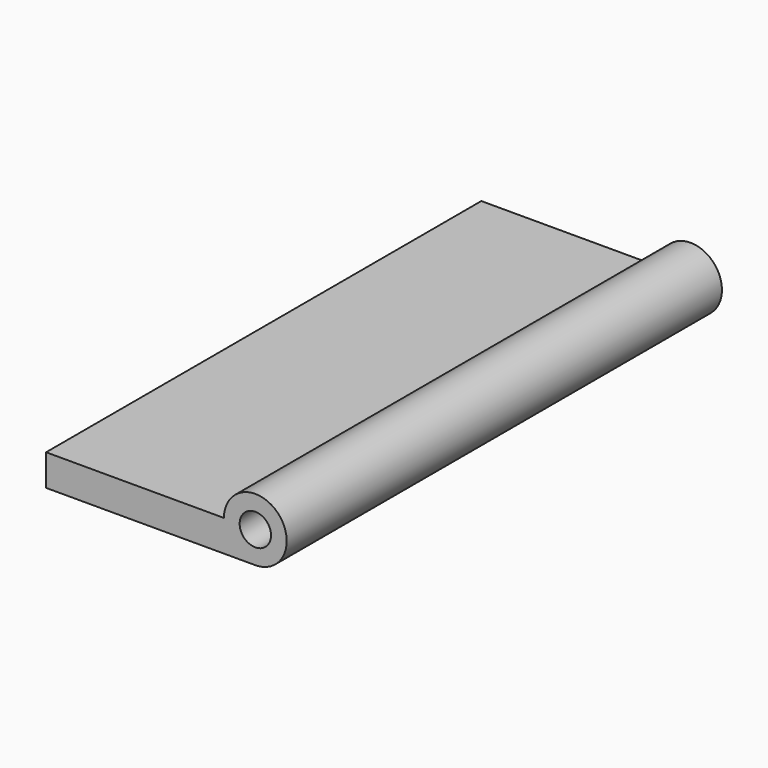
from build123d import *

# Parameters (mm, degrees)
F0_R     = 1.5
F1_DEPTH = 26
F2_W     = 10
F2_H     = 1.5
F3_DEPTH = 26
F4_R     = 0.75
F5_DEPTH = 28.9


with BuildPart() as f1:
    # F0 (on Front) → F1 (new body)
    with BuildSketch(Plane.XZ):
        Circle(F0_R)
    extrude(amount=F1_DEPTH)

    # F2 (on Front) → F3 (join)
    with BuildSketch(Plane.XZ):
        with Locations((-5, -0.75)):
            Rectangle(F2_W, F2_H)
    extrude(amount=F3_DEPTH)

    # F4 (on Front) → F5 (cut)
    with BuildSketch(Plane.XZ):
        Circle(F4_R)
    extrude(amount=F5_DEPTH, mode=Mode.SUBTRACT)


solid = f1.part
